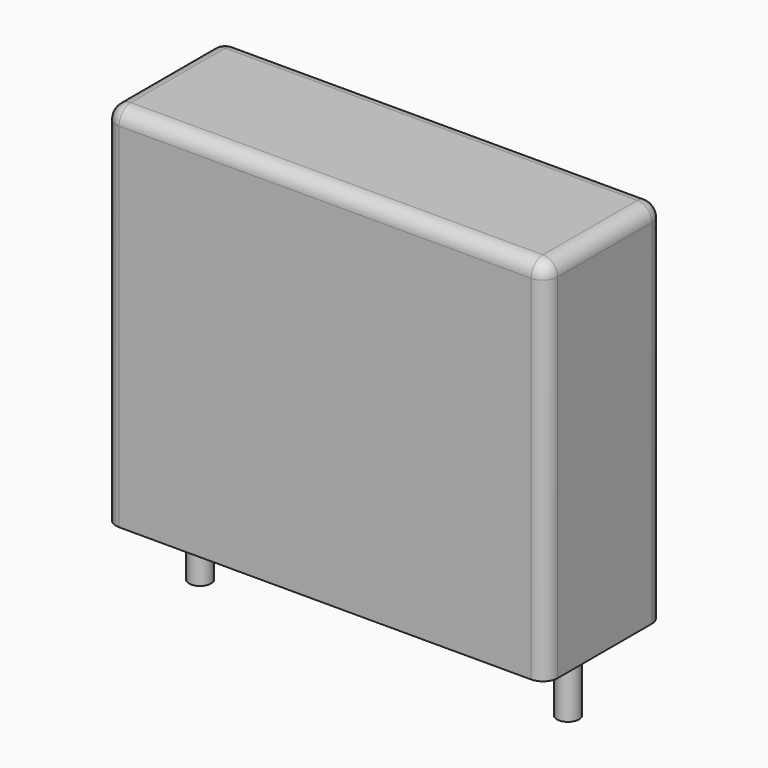
from build123d import *

# Parameters (mm, degrees)
SKETCH_W     = 18
SKETCH_H     = 6
PAD_DEPTH    = 15
FILLET_R     = 0.6
SKETCH001_R  = 0.45
PAD001_DEPTH = 3.2


with BuildPart() as fillet_body:
    # Sketch → Pad (new body)
    with BuildSketch(Plane.XY.offset(0.1)):
        with Locations((7.5, 0)):
            Rectangle(SKETCH_W, SKETCH_H)
    extrude(amount=PAD_DEPTH)

    # Fillet
    fillet_edges = [fillet_body.edges().sort_by_distance(p)[0] for p in [
        (-1.5, 0, 15.1),
        (-1.5, -3, 7.6),
        (7.5, -3, 15.1),
        (16.5, -3, 7.6),
        (16.5, 0, 15.1),
        (16.5, 3, 7.6),
        (7.5, 3, 15.1),
        (-1.5, 3, 7.6),
    ]]
    fillet(fillet_edges, radius=FILLET_R)


with BuildPart() as pad001:
    # Sketch001 → Pad001 (new body)
    with BuildSketch(Plane.XY.offset(0.5)):
        Circle(SKETCH001_R)
        with Locations((15, 0)):
            Circle(SKETCH001_R)
    extrude(amount=-PAD001_DEPTH)


solid = Compound([fillet_body.part, pad001.part])
